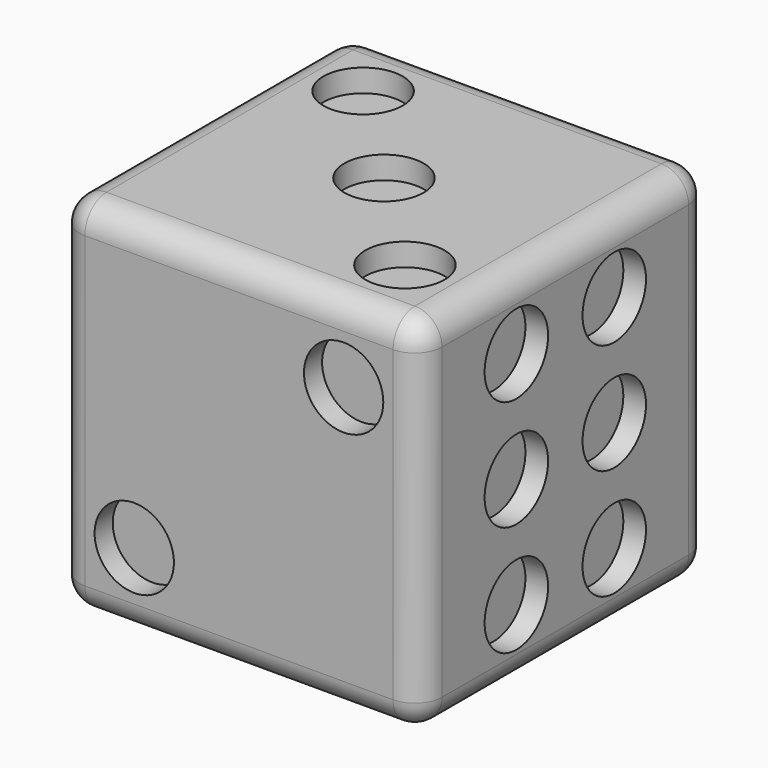
from build123d import *

# Parameters (mm, degrees)
F0_W      = 16
F0_H      = 16
F1_DEPTH  = 16
F2_R      = 1.75
F3_DEPTH  = 1
F4_R      = 1.75
F5_DEPTH  = 1
F6_R      = 1.75
F7_DEPTH  = 1
F8_R      = 1.75
F9_DEPTH  = 1
F10_R     = 1.75
F11_DEPTH = 1
F12_R     = 1.75
F13_DEPTH = 1
F14_R     = 1.2


with BuildPart() as f1:
    # F0 (on Top) → F1 (new body)
    with BuildSketch(Plane.XY):
        Rectangle(F0_W, F0_H)
    extrude(amount=F1_DEPTH)

    # F2 (on face) → F3 (cut)
    with BuildSketch(Plane.XY.offset(16)):
        with Locations((-4.618718, 4.618718)):
            Circle(F2_R)
        with Locations((4.618718, -4.618718)):
            Circle(F2_R)
        Circle(F2_R)
    extrude(amount=-F3_DEPTH, mode=Mode.SUBTRACT)

    # F4 (on face) → F5 (cut)
    with BuildSketch(Plane.XZ.offset(8)):
        with Locations((-4.618718, 3.381282)):
            Circle(F4_R)
        with Locations((4.618718, 12.618718)):
            Circle(F4_R)
    extrude(amount=-F5_DEPTH, mode=Mode.SUBTRACT)

    # F6 (on face) → F7 (cut)
    with BuildSketch(Plane(origin=(-8, 0, 0), x_dir=(0, -1, 0), z_dir=(-1, 0, 0))):
        with Locations((0, 8)):
            Circle(F6_R)
    extrude(amount=-F7_DEPTH, mode=Mode.SUBTRACT)

    # F8 (on face) → F9 (cut)
    with BuildSketch(Plane.YZ.offset(8)):
        with Locations((-2.7, 8)):
            Circle(F8_R)
        with Locations((2.7, 8)):
            Circle(F8_R)
        with Locations((2.7, 12.875)):
            Circle(F8_R)
        with Locations((2.7, 3.125)):
            Circle(F8_R)
        with Locations((-2.7, 3.125)):
            Circle(F8_R)
        with Locations((-2.7, 12.875)):
            Circle(F8_R)
    extrude(amount=-F9_DEPTH, mode=Mode.SUBTRACT)

    # F10 (on face) → F11 (cut)
    with BuildSketch(Plane(origin=(0, 8, 0), x_dir=(-1, 0, 0), z_dir=(0, 1, 0))):
        with Locations((0, 8)):
            Circle(F10_R)
        with Locations((-4.618718, 3.381282)):
            Circle(F10_R)
        with Locations((-4.618718, 12.618718)):
            Circle(F10_R)
        with Locations((4.618718, 12.618718)):
            Circle(F10_R)
        with Locations((4.618718, 3.381282)):
            Circle(F10_R)
    extrude(amount=-F11_DEPTH, mode=Mode.SUBTRACT)

    # F12 (on face) → F13 (cut)
    with BuildSketch(Plane(origin=(0, 0, 0), x_dir=(1, 0, 0), z_dir=(0, 0, -1))):
        with Locations((4.618718, -4.618718)):
            Circle(F12_R)
        with Locations((-4.618718, -4.618718)):
            Circle(F12_R)
        with Locations((-4.618718, 4.618718)):
            Circle(F12_R)
        with Locations((4.618718, 4.618718)):
            Circle(F12_R)
    extrude(amount=-F13_DEPTH, mode=Mode.SUBTRACT)

    # F14
    f14_edges = [f1.edges().sort_by_distance(p)[0] for p in [
        (0, 8, 16),
        (-8, 0, 16),
        (-8, 8, 8),
        (-8, -8, 8),
        (0, -8, 16),
        (8, -8, 8),
        (8, 0, 0),
        (8, 8, 8),
        (0, 8, 0),
        (-8, 0, 0),
        (0, -8, 0),
        (8, 0, 16),
    ]]
    fillet(f14_edges, radius=F14_R)


solid = f1.part
